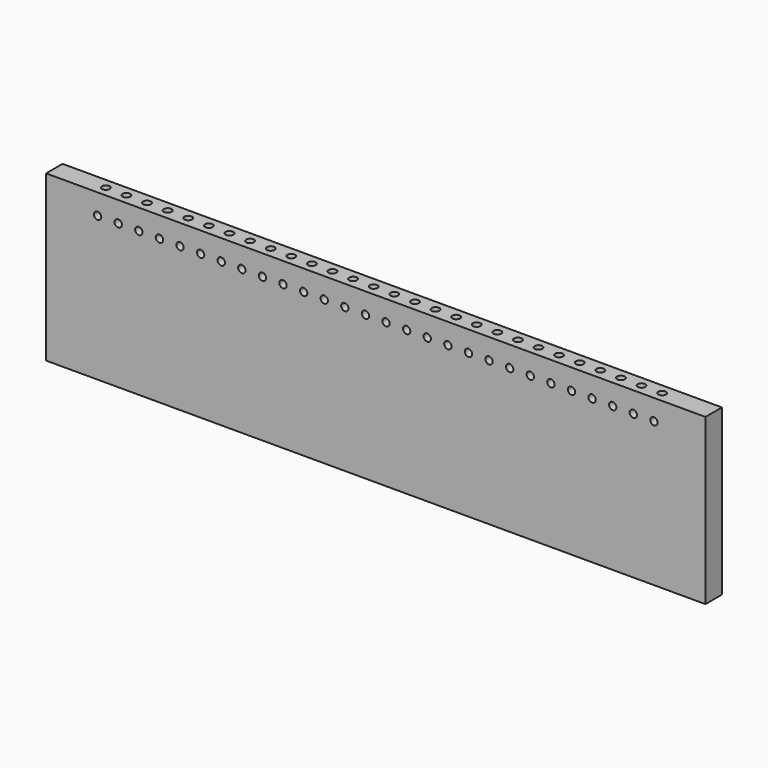
from build123d import *

# Parameters (mm, degrees)
F0_W     = 203.2
F0_H     = 50.8
F1_DEPTH = 6.35
F2_R     = 1.190625
F3_DEPTH = 12.7
F5_D     = 2.2606


with BuildPart() as f1:
    # F0 (on Front) → F1 (new body)
    with BuildSketch(Plane.XZ):
        with Locations((101.6, 25.4)):
            Rectangle(F0_W, F0_H)
    extrude(amount=F1_DEPTH)

    # F2 (on face) → F3 (cut)
    with BuildSketch(Plane.XY.offset(50.8)):
        with Locations((15.875, -3.175)):
            Circle(F2_R)
        with Locations((22.225, -3.175)):
            Circle(F2_R)
        with Locations((28.575, -3.175)):
            Circle(F2_R)
        with Locations((34.925, -3.175)):
            Circle(F2_R)
        with Locations((41.275, -3.175)):
            Circle(F2_R)
        with Locations((47.625, -3.175)):
            Circle(F2_R)
        with Locations((53.975, -3.175)):
            Circle(F2_R)
        with Locations((60.325, -3.175)):
            Circle(F2_R)
        with Locations((66.675, -3.175)):
            Circle(F2_R)
        with Locations((73.025, -3.175)):
            Circle(F2_R)
        with Locations((79.375, -3.175)):
            Circle(F2_R)
        with Locations((85.725, -3.175)):
            Circle(F2_R)
        with Locations((92.075, -3.175)):
            Circle(F2_R)
        with Locations((98.425, -3.175)):
            Circle(F2_R)
        with Locations((104.775, -3.175)):
            Circle(F2_R)
        with Locations((111.125, -3.175)):
            Circle(F2_R)
        with Locations((117.475, -3.175)):
            Circle(F2_R)
        with Locations((123.825, -3.175)):
            Circle(F2_R)
        with Locations((130.175, -3.175)):
            Circle(F2_R)
        with Locations((136.525, -3.175)):
            Circle(F2_R)
        with Locations((142.875, -3.175)):
            Circle(F2_R)
        with Locations((149.225, -3.175)):
            Circle(F2_R)
        with Locations((155.575, -3.175)):
            Circle(F2_R)
        with Locations((161.925, -3.175)):
            Circle(F2_R)
        with Locations((168.275, -3.175)):
            Circle(F2_R)
        with Locations((174.625, -3.175)):
            Circle(F2_R)
        with Locations((180.975, -3.175)):
            Circle(F2_R)
        with Locations((187.325, -3.175)):
            Circle(F2_R)
    extrude(amount=-F3_DEPTH, mode=Mode.SUBTRACT)

    # F5 (through all)
    with Locations(Plane.XZ.offset(6.35)):
        with Locations((15.875, 44.45), (22.225, 44.45), (28.575, 44.45), (34.925, 44.45), (41.275, 44.45), (47.625, 44.45), (53.975, 44.45), (60.325, 44.45), (66.675, 44.45), (73.025, 44.45), (79.375, 44.45), (85.725, 44.45), (92.075, 44.45), (98.425, 44.45), (104.775, 44.45), (111.125, 44.45), (117.475, 44.45), (149.225, 44.45), (180.975, 44.45), (174.625, 44.45), (168.275, 44.45), (161.925, 44.45), (155.575, 44.45), (142.875, 44.45), (136.525, 44.45), (130.175, 44.45), (123.825, 44.45), (187.325, 44.45)):
            Hole(F5_D / 2)


solid = f1.part
